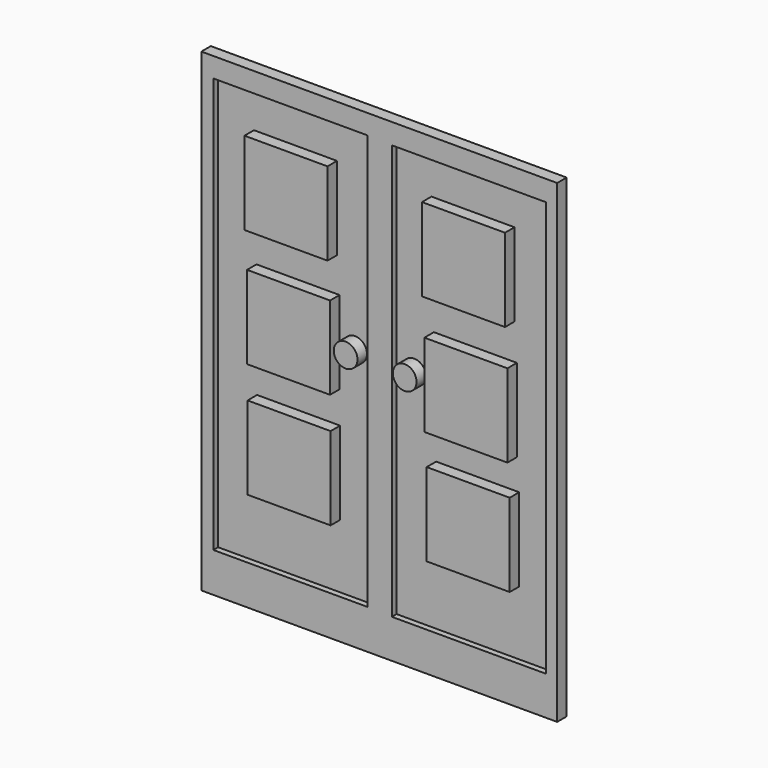
from build123d import *

# Parameters (mm, degrees)
F0_W     = 76.2
F0_H     = 101.6
F1_DEPTH = 2.54
F2_W     = 33.02
F2_H     = 88.9
F3_DEPTH = 1.27
F4_W     = 17.78
F4_H     = 17.78
F5_DEPTH = 2.54
F6_R     = 2.54
F7_DEPTH = 2.54


with BuildPart() as f1:
    # F0 (on Front) → F1 (new body)
    with BuildSketch(Plane.XZ):
        with Locations((1.335782, -9.618688)):
            Rectangle(F0_W, F0_H)
    extrude(amount=F1_DEPTH)

    # F2 (on face) → F3 (cut)
    with BuildSketch(Plane.XZ.offset(2.54)):
        with Locations((-17.679934, -7.495851)):
            Rectangle(F2_W, F2_H)
        with Locations((20.525211, -7.666058)):
            Rectangle(F2_W, F2_H)
    extrude(amount=-F3_DEPTH, mode=Mode.SUBTRACT)

    # F4 (on face) → F5 (join)
    with BuildSketch(Plane.XZ.offset(1.27)):
        with Locations((-17.624406, 20.281628)):
            Rectangle(F4_W, F4_H)
        with Locations((-17.073924, -4.828554)):
            Rectangle(F4_W, F4_H)
        with Locations((-16.956719, -29.41318)):
            Rectangle(F4_W, F4_H)
        with Locations((20.393534, 20.128676)):
            Rectangle(F4_W, F4_H)
        with Locations((20.905885, -5.264044)):
            Rectangle(F4_W, F4_H)
        with Locations((21.396337, -29.502603)):
            Rectangle(F4_W, F4_H)
    extrude(amount=F5_DEPTH)

    # F6 (on face) → F7 (join)
    with BuildSketch(Plane.XZ.offset(1.27)):
        with Locations((-4.850546, -5.14735)):
            Circle(F6_R)
        with Locations((7.796882, -5.264044)):
            Circle(F6_R)
    extrude(amount=F7_DEPTH)


solid = f1.part
